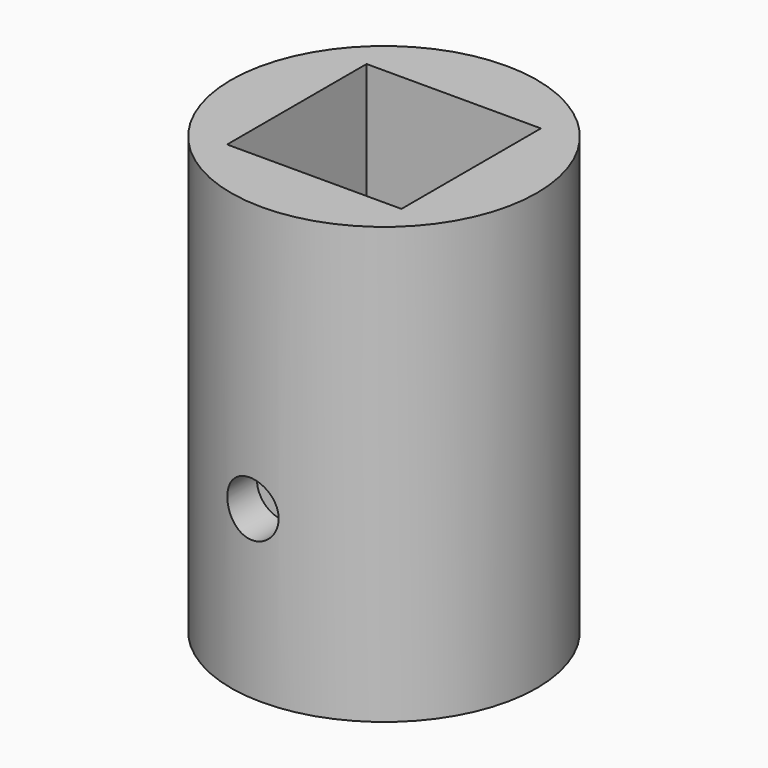
from build123d import *

# Parameters (mm, degrees)
F0_R     = 8.9154
F1_DEPTH = 25.4
F2_W     = 10.16
F2_H     = 10.16
F3_DEPTH = 10.7696
F4_R     = 3.683
F5_DEPTH = 14.6314
F7_DEPTH = 11.6078
F8_R     = 1.5875
F9_DEPTH = 25.4


with BuildPart() as f1:
    # F0 (on Top) → F1 (new body)
    with BuildSketch(Plane.XY):
        Circle(F0_R)
    extrude(amount=F1_DEPTH)

    # F2 (on face) → F3 (cut)
    with BuildSketch(Plane.XY.offset(25.4)):
        Rectangle(F2_W, F2_H)
    extrude(amount=-F3_DEPTH, mode=Mode.SUBTRACT)

    # F4 (on face) → F5 (cut, through all)
    with BuildSketch(Plane.XY.offset(14.6304)):
        Circle(F4_R)
    extrude(amount=-F5_DEPTH, mode=Mode.SUBTRACT)

    # F6 (on face) → F7 (cut)
    with BuildSketch(Plane(origin=(0, 0, 0), x_dir=(1, 0, 0), z_dir=(0, 0, -1))):
        Polygon((3.739498, 6.477), (-3.739498, 6.477), (-7.478995, 0), (-3.739498, -6.477), (3.739498, -6.477), (7.478995, 0), align=None)
    extrude(amount=-F7_DEPTH, mode=Mode.SUBTRACT)

    # F8 (on face) → F9 (cut, symmetric)
    with BuildSketch(Plane(origin=(0, -6.477, 0), x_dir=(-1, 0, 0), z_dir=(0, 1, 0))):
        with Locations((0.635, 9.7028)):
            Circle(F8_R)
    extrude(amount=F9_DEPTH, both=True, mode=Mode.SUBTRACT)


solid = f1.part
